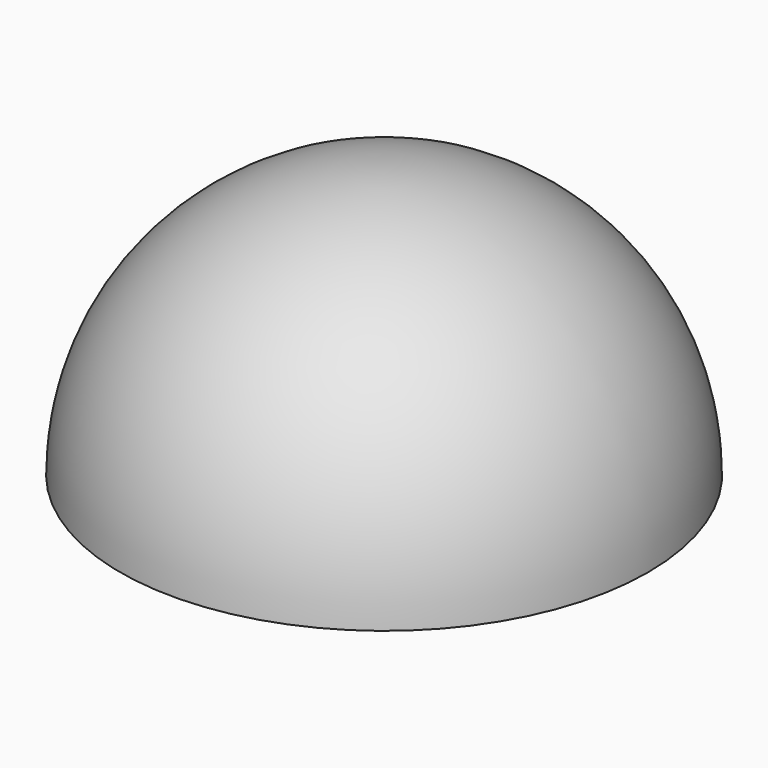
from build123d import *

# Parameters (mm, degrees)
F3_W     = 29.70758
F3_H     = 25.697972
F4_DEPTH = 25.4
F5_R     = 0.375966
F6_DEPTH = 0.254
F5_R_2   = 0.381
F7_DEPTH = 0.254


with BuildPart() as f1:
    # F0 (on Front) → F1 (revolve)
    with BuildSketch(Plane.XZ):
        with BuildLine():
            Line((0, 12.7), (0, -12.7))
            ThreePointArc((0, -12.7), (12.7, 0), (0, 12.7))
        make_face()
    revolve(axis=Axis((0, 0, 0), (0, 0, -1)))

    # F3 (on offset) → F4 (cut)
    with BuildSketch(Plane.XY):
        Rectangle(F3_W, F3_H)
    extrude(amount=-F4_DEPTH, mode=Mode.SUBTRACT)

    # F5 (on Top) → F6 (cut)
    with BuildSketch(Plane.XY):
        Circle(F5_R)
    extrude(amount=F6_DEPTH, mode=Mode.SUBTRACT)

    # F5 (on Top) → F7 (cut)
    with BuildSketch(Plane.XY):
        Circle(F5_R)
        with Locations((0, -12.192)):
            Circle(F5_R_2)
        with Locations((0, 12.192)):
            Circle(F5_R_2)
        with Locations((12.192, 0)):
            Circle(F5_R_2)
        with Locations((-12.192, 0)):
            Circle(F5_R_2)
    extrude(amount=F7_DEPTH, mode=Mode.SUBTRACT)


solid = f1.part
